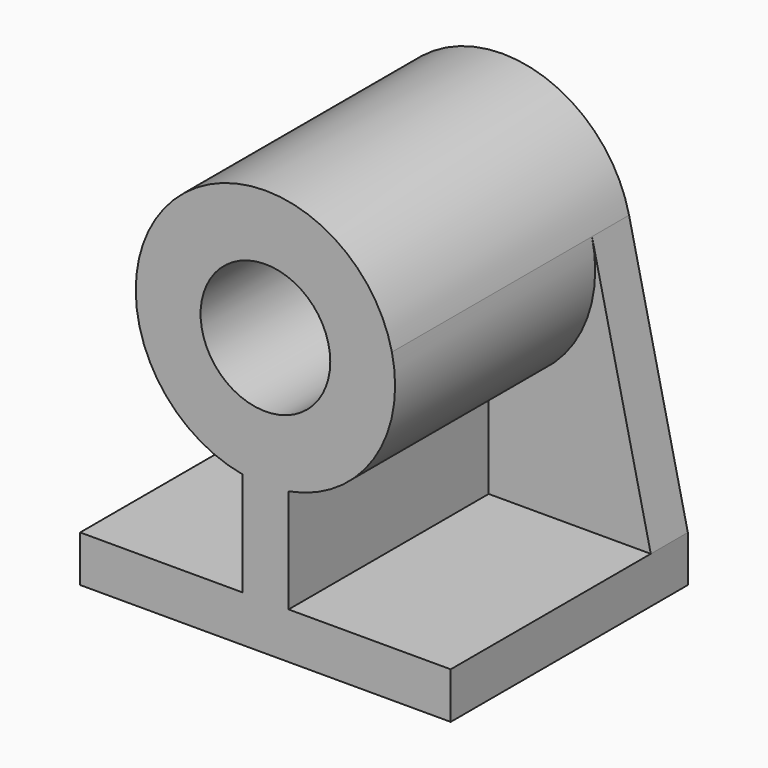
from build123d import *

# Parameters (mm, degrees)
F0_R     = 14
F1_DEPTH = 64
F2_DEPTH = 10


with BuildPart() as f1:
    # F0 (on Front) → F1 (new body)
    with BuildSketch(Plane.XZ):
        with BuildLine():
            Line((0, 10), (0, 0))
            Line((0, 0), (80, 0))
            Line((80, 0), (80, 10))
            Line((80, 10), (45, 10))
            Line((45, 10), (45, 32.450045))
            ThreePointArc((45, 32.450045), (63.350892, 44.548921), (67.311856, 66.169485))
            ThreePointArc((67.311856, 66.169485), (40, 88), (12.688144, 66.169485))
            ThreePointArc((12.688144, 66.169485), (16.649108, 44.548921), (35, 32.450045))
            Line((35, 32.450045), (35, 10))
            Line((35, 10), (0, 10))
        make_face()
        with Locations((40, 60)):
            Circle(F0_R, mode=Mode.SUBTRACT)
    extrude(amount=F1_DEPTH)

    # F0 (on Front) → F2 (join)
    with BuildSketch(Plane.XZ):
        with BuildLine():
            Line((45, 10), (80, 10))
            Line((80, 10), (67.311856, 66.169485))
            ThreePointArc((67.311856, 66.169485), (63.350892, 44.548921), (45, 32.450045))
            Line((45, 32.450045), (45, 10))
        make_face()
        with BuildLine():
            Line((12.688144, 66.169485), (0, 10))
            Line((0, 10), (35, 10))
            Line((35, 10), (35, 32.450045))
            ThreePointArc((35, 32.450045), (16.649108, 44.548921), (12.688144, 66.169485))
        make_face()
    extrude(amount=F2_DEPTH)


solid = f1.part
